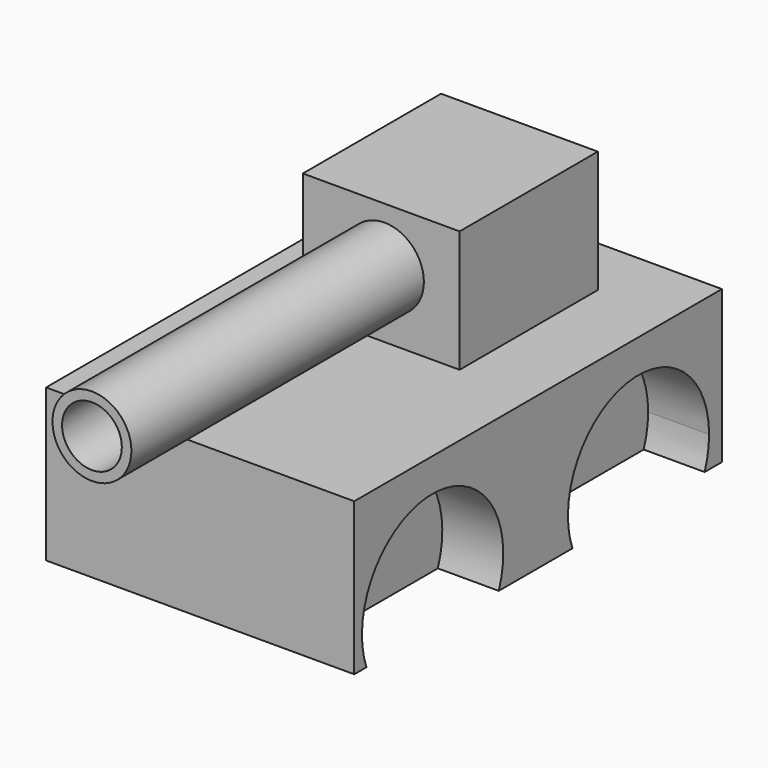
from build123d import *

# Parameters (mm, degrees)
F0_W      = 64.230248332
F0_H      = 95.7897491753
F1_DEPTH  = 31.75
F4_DEPTH  = 12.7
F5_DEPTH  = 12.7
F6_W      = 32.6707493514
F6_H      = 36.0044999979
F7_DEPTH  = 25.4
F8_R      = 8.2239975994
F9_DEPTH  = 76.2
F10_R     = 6.2290995739
F11_DEPTH = 76.2


with BuildPart() as f1:
    # F0 (on Top) → F1 (new body)
    with BuildSketch(Plane.XY):
        with Locations((-0.8889995515, -2.6670005172)):
            Rectangle(F0_W, F0_H)
    extrude(amount=F1_DEPTH)

    # F2 (on face) → F4 (cut)
    with BuildSketch(Plane.YZ.offset(31.2261246145)):
        with BuildLine():
            Line((-47.3948020572, 0), (-12.907678998, 0))
            ThreePointArc((-12.907678998, 0), (-30.1512405276, 24.8333887155), (-47.3948020572, 0))
        make_face()
        with BuildLine():
            ThreePointArc((40.7211401539, 0), (41.5896545425, 3.1629956827), (41.8822641726, 6.4299879596))
            ThreePointArc((41.8822641726, 6.4299879596), (20.2309505583, 24.521699667), (6.2747455163, 0))
            Line((6.2747455163, 0), (40.7211401539, 0))
        make_face()
    extrude(amount=-F4_DEPTH, mode=Mode.SUBTRACT)

    # F3 (on face) → F5 (cut)
    with BuildSketch(Plane(origin=(-33.0041237175, 0, 0), x_dir=(0, -1, 0), z_dir=(-1, 0, 0))):
        with BuildLine():
            ThreePointArc((-6.4749563765, 0), (-5.4877667655, 3.3604332928), (-5.1546871083, 6.8469950929))
            ThreePointArc((-5.1546871083, 6.8469950929), (-27.055845807, 24.9285123344), (-40.6636116374, 0))
            Line((-40.6636116374, 0), (-6.4749563765, 0))
        make_face()
        with BuildLine():
            ThreePointArc((48.4297908844, 6.8469950929), (26.592859866, 24.8625205102), (13.0552904295, 0))
            Line((13.0552904295, 0), (47.1045045567, 0))
            ThreePointArc((47.1045045567, 0), (48.0954229104, 3.3599574658), (48.4297908844, 6.8469950929))
        make_face()
    extrude(amount=-F5_DEPTH, mode=Mode.SUBTRACT)

    # F6 (on face) → F7 (join)
    with BuildSketch(Plane.XY.offset(31.75)):
        with Locations((-0.6667496637, 14.3351249862)):
            Rectangle(F6_W, F6_H)
    extrude(amount=F7_DEPTH)

    # F8 (on face) → F9 (join)
    with BuildSketch(Plane.XZ.offset(3.6671250127)):
        with Locations((0, 45.4501248896)):
            Circle(F8_R)
    extrude(amount=F9_DEPTH)

    # F10 (on face) → F11 (cut)
    with BuildSketch(Plane.XZ.offset(79.8671250127)):
        with Locations((0, 45.4501248896)):
            Circle(F10_R)
    extrude(amount=-F11_DEPTH, mode=Mode.SUBTRACT)


solid = f1.part
